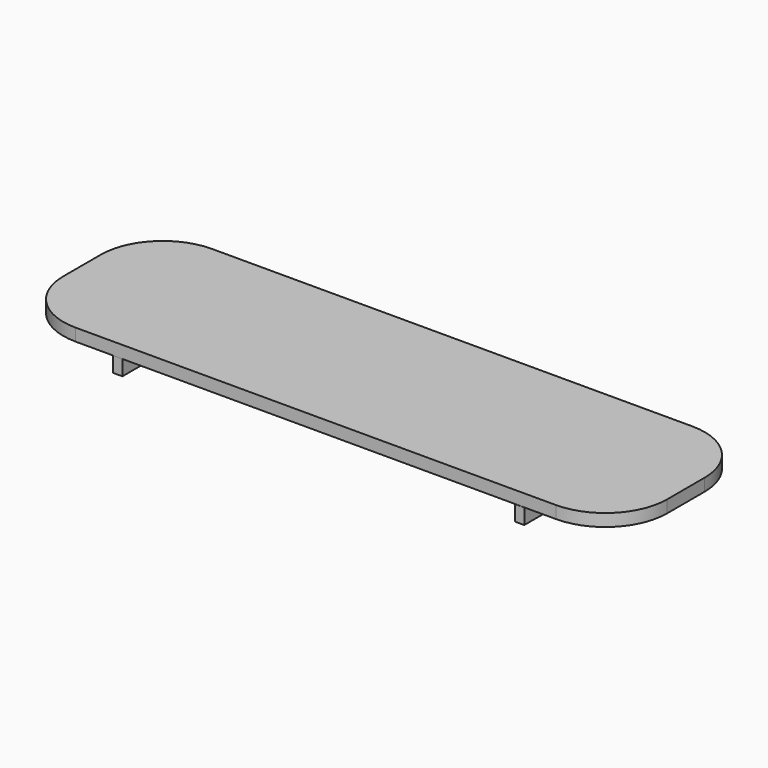
from build123d import *

# Parameters (mm, degrees)
SKETCH009_W   = 97.773254
SKETCH009_H   = 27.607625
PAD006_DEPTH  = 2
FILLET003_R   = 10
SKETCH010_W   = 1.5
SKETCH010_H   = 4.720073
SKETCH010_H_2 = 4.777608
PAD007_DEPTH  = 2.5
SKETCH011_W   = 10.487562
SKETCH011_H   = 3
SKETCH011_W_2 = 10.392681
PAD008_DEPTH  = 4.5


with BuildPart() as part:
    # Sketch009 → Pad006 (new body)
    with BuildSketch(Plane.XY):
        with Locations((31.520691, 6.826573)):
            Rectangle(SKETCH009_W, SKETCH009_H)
    extrude(amount=PAD006_DEPTH)

    # Fillet003
    fillet003_edges = [part.edges().sort_by_distance(p)[0] for p in [
        (-17.365936, -6.977239, 1),
        (80.407318, -6.977239, 1),
        (80.407318, 20.630386, 1),
        (-17.365936, 20.630386, 1),
    ]]
    fillet(fillet003_edges, radius=FILLET003_R)

    # Sketch010 (on Face2 of Fillet003) → Pad007 (join)
    with BuildSketch(Plane(origin=(0, 0, 0), x_dir=(1, 0, 0), z_dir=(0, 0, -1))):
        with Locations((-0.567265, 4.592866)):
            Rectangle(SKETCH010_W, SKETCH010_H)
        with Locations((64.55027, 4.620095)):
            Rectangle(SKETCH010_W, SKETCH010_H_2)
    extrude(amount=PAD007_DEPTH)

    # Sketch011 (on Face2 of Pad007) → Pad008 (join)
    with BuildSketch(Plane(origin=(0, 0, 0), x_dir=(1, 0, 0), z_dir=(0, 0, -1))):
        with Locations((-0.490359, -12.412728)):
            Rectangle(SKETCH011_W, SKETCH011_H)
        with Locations((64.90986, -12.423971)):
            Rectangle(SKETCH011_W_2, SKETCH011_H)
    extrude(amount=PAD008_DEPTH)


with BuildPart() as part_1:
    # Body004 placement: moved
    add(part.part.moved(Location((0, 0, 6.7))))


solid = part_1.part
